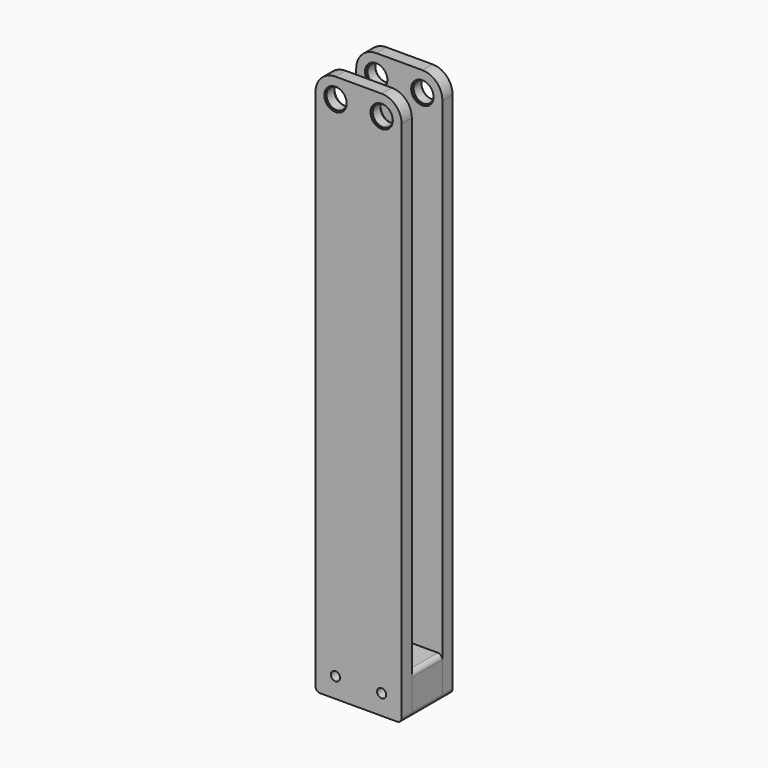
from build123d import *

# Parameters (mm, degrees)
F0_R     = 5
F0_R_2   = 12.3
F0_R_3   = 11
F1_DEPTH = 14
F2_DEPTH = 1.5
F3_R     = 12.3
F3_R_2   = 11
F4_DEPTH = 1.8
F5_R     = 5
F6_DEPTH = 42


with BuildPart() as f1:
    # F0 (on Front) → F1 (new body)
    with BuildSketch(Plane.XZ):
        with BuildLine():
            Line((25.4, 301.4), (-25.4, 301.4))
            ThreePointArc((-25.4, 301.4), (-40.956349, 294.956349), (-47.4, 279.4))
            Line((-47.4, 279.4), (-47.4, -296.4))
            ThreePointArc((-47.4, -296.4), (-45.935534, -299.935534), (-42.4, -301.4))
            Line((-42.4, -301.4), (42.4, -301.4))
            ThreePointArc((42.4, -301.4), (45.935534, -299.935534), (47.4, -296.4))
            Line((47.4, -296.4), (47.4, 279.4))
            ThreePointArc((47.4, 279.4), (40.956349, 294.956349), (25.4, 301.4))
        make_face()
        with Locations((-25.4, -279.4)):
            Circle(F0_R, mode=Mode.SUBTRACT)
        with Locations((25.4, -279.4)):
            Circle(F0_R, mode=Mode.SUBTRACT)
        with Locations((-25.4, 279.4)):
            Circle(F0_R_2, mode=Mode.SUBTRACT)
        with Locations((25.4, 279.4)):
            Circle(F0_R_2, mode=Mode.SUBTRACT)
        with Locations((-25.4, 279.4)):
            Circle(F0_R_2)
        with Locations((-25.4, 279.4)):
            Circle(F0_R_3, mode=Mode.SUBTRACT)
        with Locations((25.4, 279.4)):
            Circle(F0_R_2)
        with Locations((25.4, 279.4)):
            Circle(F0_R_3, mode=Mode.SUBTRACT)
    extrude(amount=F1_DEPTH)

    # F0 (on Front) → F2 (cut)
    with BuildSketch(Plane.XZ):
        with Locations((-25.4, 279.4)):
            Circle(F0_R_2)
        with Locations((-25.4, 279.4)):
            Circle(F0_R_3, mode=Mode.SUBTRACT)
        with Locations((25.4, 279.4)):
            Circle(F0_R_2)
        with Locations((25.4, 279.4)):
            Circle(F0_R_3, mode=Mode.SUBTRACT)
    extrude(amount=F2_DEPTH, mode=Mode.SUBTRACT)

    # F3 (on face) → F4 (cut)
    with BuildSketch(Plane.XZ.offset(14)):
        with Locations((-25.4, 279.4)):
            Circle(F3_R)
        with Locations((-25.4, 279.4)):
            Circle(F3_R_2, mode=Mode.SUBTRACT)
        with Locations((25.4, 279.4)):
            Circle(F3_R)
        with Locations((25.4, 279.4)):
            Circle(F3_R_2, mode=Mode.SUBTRACT)
    extrude(amount=-F4_DEPTH, mode=Mode.SUBTRACT)


with BuildPart() as f6:
    # F5 (on face) → F6 (new body)
    with BuildSketch(Plane.XZ.offset(14)):
        with BuildLine():
            ThreePointArc((-42.4, -257.4), (-45.935534, -258.864466), (-47.4, -262.4))
            Line((-47.4, -262.4), (-47.4, -296.4))
            ThreePointArc((-47.4, -296.4), (-45.935534, -299.935534), (-42.4, -301.4))
            Line((-42.4, -301.4), (42.4, -301.4))
            ThreePointArc((42.4, -301.4), (45.935534, -299.935534), (47.4, -296.4))
            Line((47.4, -296.4), (47.4, -262.4))
            ThreePointArc((47.4, -262.4), (45.935534, -258.864466), (42.4, -257.4))
            Line((42.4, -257.4), (-42.4, -257.4))
        make_face()
        with Locations((-25.4, -279.4)):
            Circle(F5_R, mode=Mode.SUBTRACT)
        with Locations((25.4, -279.4)):
            Circle(F5_R, mode=Mode.SUBTRACT)
    extrude(amount=F6_DEPTH)


with BuildPart() as f8_1:
    # F8: instance of F1
    add(f1.part.mirror(Plane(origin=(0, -35, -5.017496), x_dir=(1, 0, 0), z_dir=(0, -1, 0))))


solid = Compound([f1.part, f6.part, f8_1.part])
